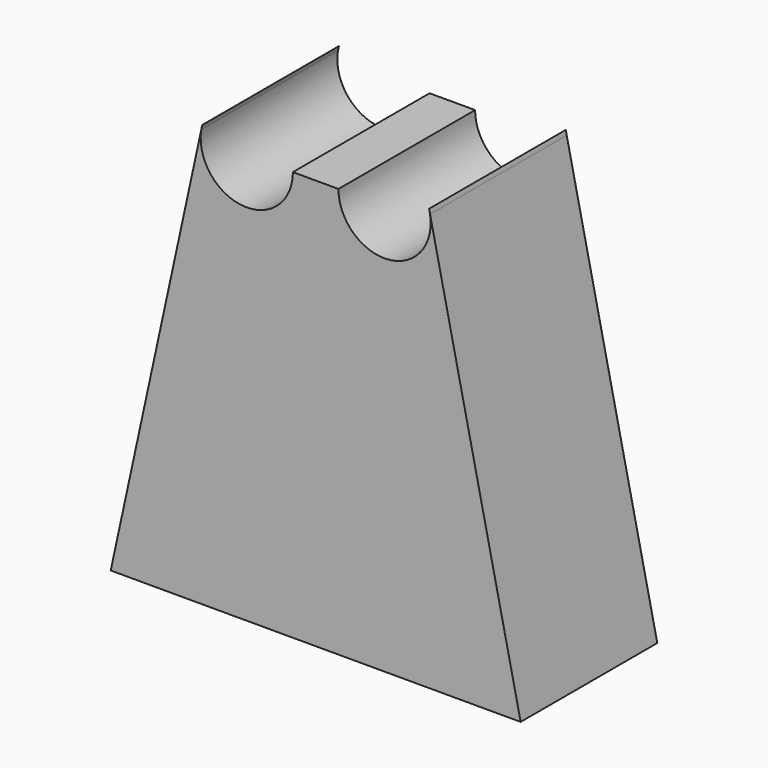
from build123d import *

# Parameters (mm, degrees)
F1_DEPTH = 15


with BuildPart() as f1:
    # F0 (on Front) → F1 (new body)
    with BuildSketch(Plane.XZ):
        with BuildLine():
            Line((-27.860177, 0.658617), (-27.773799, 1.056724))
            ThreePointArc((-27.773799, 1.056724), (-27.821997, 0.858757), (-27.860177, 0.658617))
        make_face()
        with BuildLine():
            Line((-7.854378, 1.056724), (-7.768, 0.658617))
            ThreePointArc((-7.768, 0.658617), (-7.80618, 0.858757), (-7.854378, 1.056724))
        make_face()
        with BuildLine():
            ThreePointArc((-19.814088, 0), (-24.194498, -4.0365), (-27.860177, 0.658617))
            Line((-27.860177, 0.658617), (-35.814088, -36))
            Line((-35.814088, -36), (-17.814088, -36))
            Line((-17.814088, -36), (-17.814088, 0))
            Line((-17.814088, 0), (-19.814088, 0))
        make_face()
        with BuildLine():
            Line((-15.814088, 0), (-17.814088, 0))
            Line((-17.814088, 0), (-17.814088, -36))
            Line((-17.814088, -36), (0.185912, -36))
            Line((0.185912, -36), (-7.768, 0.658617))
            ThreePointArc((-7.768, 0.658617), (-11.433678, -4.0365), (-15.814088, 0))
        make_face()
    extrude(amount=F1_DEPTH)


solid = f1.part
